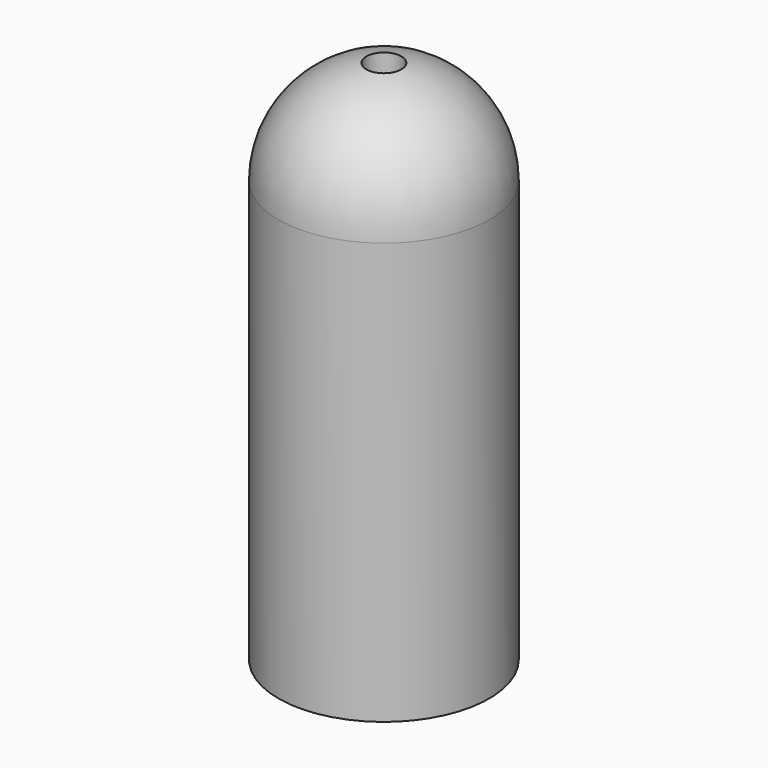
from build123d import *

# Parameters (mm, degrees)
F2_R     = 25
F3_DEPTH = 100
F4_R     = 5
F5_DEPTH = 150.001


with BuildPart() as f1:
    # F0 (on Front) → F1 (revolve)
    with BuildSketch(Plane.XZ):
        with BuildLine():
            Line((-30, 0), (0, 0))
            Line((0, 0), (0, 150))
            ThreePointArc((0, 150), (-21.213203, 141.213203), (-30, 120))
            Line((-30, 120), (-30, 0))
        make_face()
    revolve(axis=Axis((0, 0, 75), (0, 0, 1)))

    # F2 (on Top) → F3 (cut)
    with BuildSketch(Plane.XY):
        Circle(F2_R)
    extrude(amount=F3_DEPTH, mode=Mode.SUBTRACT)

    # F4 (on Top) → F5 (cut, through all)
    with BuildSketch(Plane.XY):
        Circle(F4_R)
    extrude(amount=F5_DEPTH, mode=Mode.SUBTRACT)


solid = f1.part
